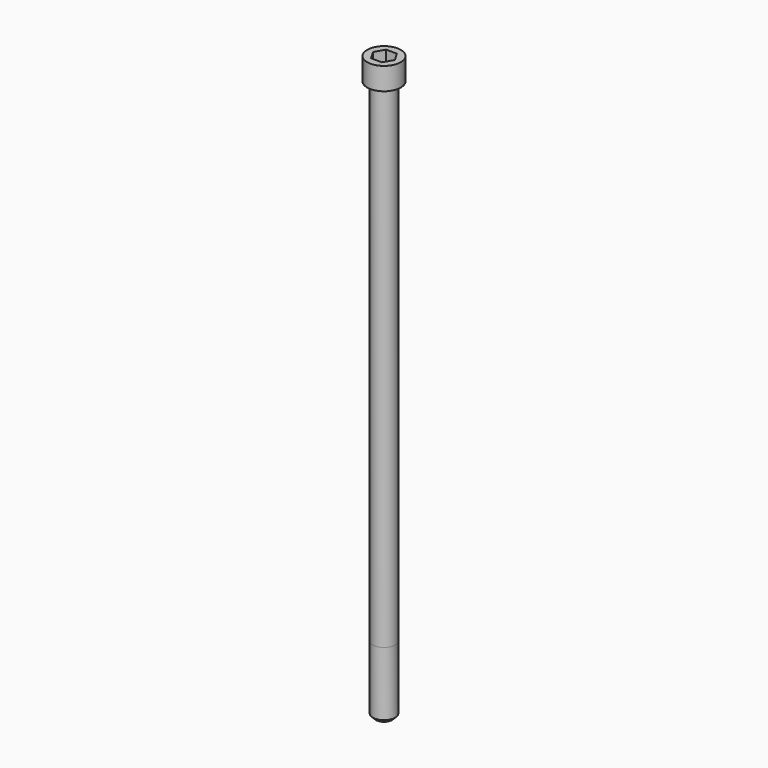
from build123d import *

# Parameters (mm, degrees)
POCKET_DEPTH = 10.07


with BuildPart() as part:
    # Sketch → Revolve (revolve)
    with BuildSketch(Plane.YZ):
        with BuildLine():
            Line((5.999, 0), (9, 0))
            Line((9, 0), (9, 11.97229))
            ThreePointArc((9, 11.97229), (8.991884, 11.991884), (8.97229, 12))
            Line((8.97229, 12), (0, 12))
            Line((0, -300), (0, 12))
            Line((4.25, -300), (0, -300))
            Line((6, -298.25), (4.25, -300))
            Line((6, -264), (6, -298.25))
            Line((5.999, 0), (6, -264))
        make_face()
    revolve(axis=Axis((0, 0, 0), (0, 0, 1)))

    # Sketch001 → Pocket (cut)
    with BuildSketch(Plane.XY.offset(12)):
        Polygon((5.813917, 0), (2.906959, 5.035), (-2.906959, 5.035), (-5.813917, 0), (-2.906959, -5.035), (2.906959, -5.035), align=None)
    extrude(amount=-POCKET_DEPTH, mode=Mode.SUBTRACT)


solid = part.part
